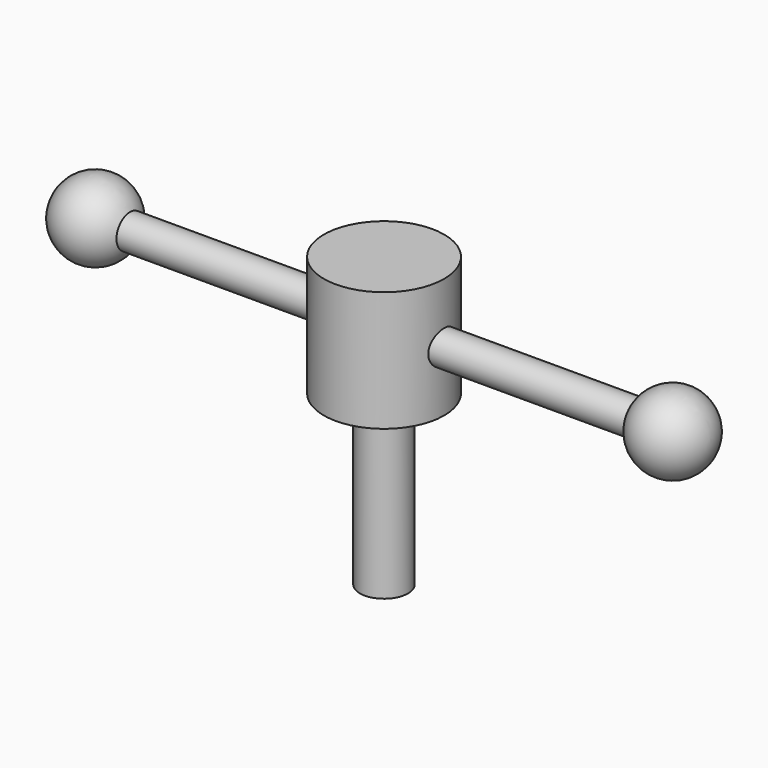
from build123d import *

# Parameters (mm, degrees)
F1_R     = 0.175
F4_DEPTH = 3
F6_R     = 0.625
F7_DEPTH = 1.25
F8_R     = 0.25
F9_DEPTH = 1.75


with BuildPart() as f2:
    # F0 (on Front) → F2 (revolve)
    with BuildSketch(Plane.XZ):
        with BuildLine():
            Line((-3.4, 0), (-3, 0))
            Line((-3, 0), (-2.6, 0))
            ThreePointArc((-2.6, 0), (-3, 0.4), (-3.4, 0))
        make_face()
    revolve(axis=Axis((-3.2, 0, 0), (-1, 0, 0)))



with BuildPart() as f3:
    # F0 (on Front) → F3 (revolve)
    with BuildSketch(Plane.XZ):
        with BuildLine():
            Line((-3.4, 0), (-3, 0))
            Line((-3, 0), (-2.6, 0))
            ThreePointArc((-2.6, 0), (-3, 0.4), (-3.4, 0))
        make_face()
        with BuildLine():
            ThreePointArc((3.4, 0), (3, 0.4), (2.6, 0))
            Line((2.6, 0), (3, 0))
            Line((3, 0), (3.4, 0))
        make_face()
    revolve(axis=Axis((3.2, 0, 0), (1, 0, 0)))


with BuildPart() as f2_1:
    add(f2.part)

    add(f3.part)  # F4 merges F3
    # F1 (on Right) → F4 (join, symmetric)
    with BuildSketch(Plane.YZ):
        Circle(F1_R)
    extrude(amount=F4_DEPTH, both=True)

    # F6 (on offset) → F7 (join)
    with BuildSketch(Plane.XY.offset(0.625)):
        Circle(F6_R)
    extrude(amount=-F7_DEPTH)

    # F8 (on face) → F9 (join)
    with BuildSketch(Plane(origin=(0, 0, -0.625), x_dir=(1, 0, 0), z_dir=(0, 0, -1))):
        Circle(F8_R)
    extrude(amount=F9_DEPTH)


solid = f2_1.part
